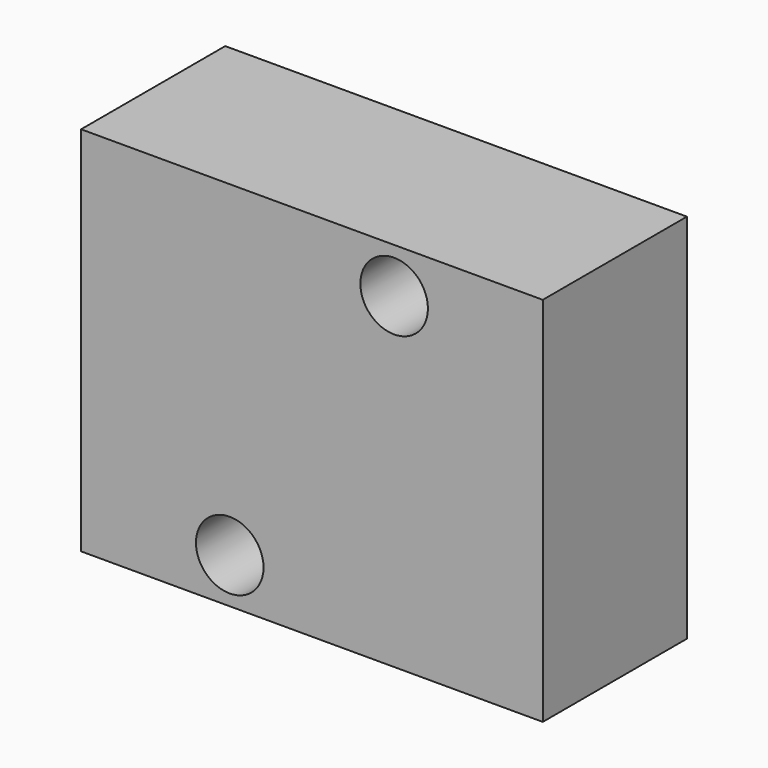
from build123d import *

# Parameters (mm, degrees)
F0_W     = 20.5
F0_H     = 16.5
F1_DEPTH = 8
F2_R     = 1.5
F3_DEPTH = 25
F4_DEPTH = 25
F5_DEPTH = 25


with BuildPart() as f1:
    # F0 (on Front) → F1 (new body)
    with BuildSketch(Plane.XZ):
        Rectangle(F0_W, F0_H)
    extrude(amount=F1_DEPTH)

    # F2 (on face) → F3 (cut)
    with BuildSketch(Plane.XZ.offset(8)):
        with Locations((3.65, 6.25)):
            Circle(F2_R)
        with Locations((-3.65, -6.25)):
            Circle(F2_R)
    extrude(amount=-F3_DEPTH, mode=Mode.SUBTRACT)

    # F2 (on face) → F4 (cut)
    with BuildSketch(Plane.XZ.offset(8)):
        with Locations((3.65, 6.25)):
            Circle(F2_R)
        with Locations((-3.65, -6.25)):
            Circle(F2_R)
    extrude(amount=-F4_DEPTH, mode=Mode.SUBTRACT)

    # F2 (on face) → F5 (cut)
    with BuildSketch(Plane.XZ.offset(8)):
        with Locations((3.65, 6.25)):
            Circle(F2_R)
        with Locations((-3.65, -6.25)):
            Circle(F2_R)
    extrude(amount=-F5_DEPTH, mode=Mode.SUBTRACT)


solid = f1.part
